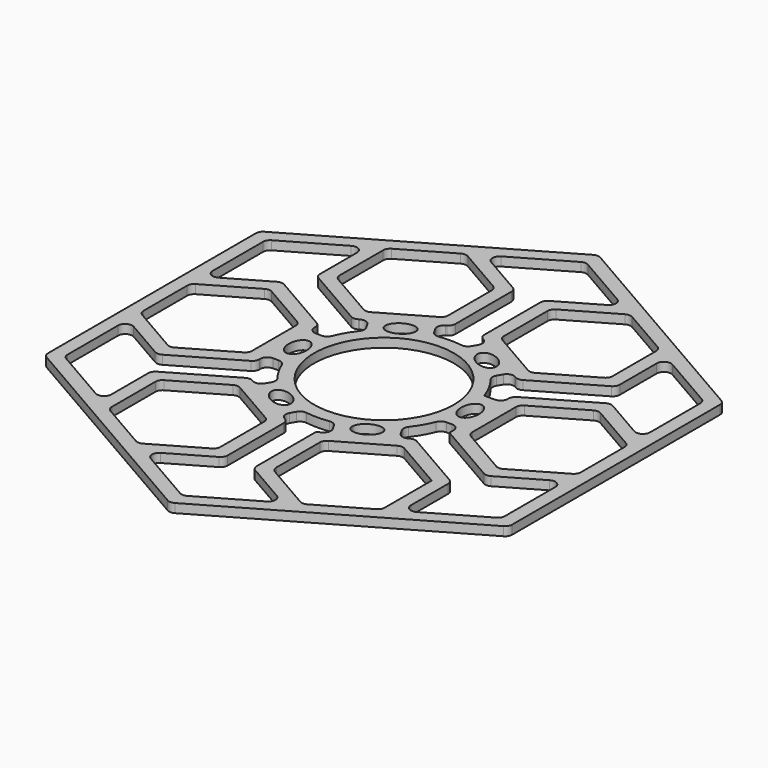
from build123d import *

# Parameters (mm, degrees)
F0_R     = 15.650635
F1_DEPTH = 2
F2_R     = 1.6


with BuildPart() as f1:
    # F0 (on Top) → F1 (new body)
    with BuildSketch(Plane.XY):
        Polygon((-51.961524, -30), (0, -60), (51.961524, -30), (51.961524, 30), (0, 60), (-33.558484, 40.625), (-51.961524, 30), (-51.961524, 8.75), (-51.961524, -8.75), align=None)
        Polygon((-6.247595, -24.857051), (-6.247595, -38.892949), (-18.40304, -45.910898), (-30.558484, -38.892949), (-30.558484, -24.857051), (-18.40304, -17.839102), align=None, mode=Mode.SUBTRACT)
        with BuildLine():
            Line((15.40304, -47.642949), (0, -56.535898))
            Line((0, -56.535898), (-15.40304, -47.642949))
            Line((-15.40304, -47.642949), (-3.247595, -40.625))
            Line((-3.247595, -40.625), (-3.247595, -23.125))
            Line((-3.247595, -23.125), (-5.629165, -21.75))
            Line((-5.629165, -21.75), (-3.633431, -18.293287))
            ThreePointArc((-3.633431, -18.293287), (0, -18.650635), (3.633431, -18.293287))
            Line((3.633431, -18.293287), (5.629165, -21.75))
            Line((5.629165, -21.75), (3.247595, -23.125))
            Line((3.247595, -23.125), (3.247595, -40.625))
            Line((3.247595, -40.625), (15.40304, -47.642949))
        make_face(mode=Mode.SUBTRACT)
        with BuildLine():
            Line((-48.961524, -28.267949), (-48.961524, -10.482051))
            Line((-48.961524, -10.482051), (-36.80608, -17.5))
            Line((-36.80608, -17.5), (-21.650635, -8.75))
            Line((-21.650635, -8.75), (-21.650635, -6))
            Line((-21.650635, -6), (-17.659167, -6))
            ThreePointArc((-17.659167, -6), (-16.151924, -9.325318), (-14.025736, -12.293287))
            Line((-14.025736, -12.293287), (-16.02147, -15.75))
            Line((-16.02147, -15.75), (-18.40304, -14.375))
            Line((-18.40304, -14.375), (-33.558484, -23.125))
            Line((-33.558484, -23.125), (-33.558484, -37.160898))
            Line((-33.558484, -37.160898), (-48.961524, -28.267949))
        make_face(mode=Mode.SUBTRACT)
        with BuildLine():
            add(Edge.make_bspline(
                [(-12.251116, -15.219555), (-13.983167, -18.219555), (-9.220027, -18.969555), (-4.456887, -19.719555), (-7.487976, -15.969555), (-10.519065, -12.219555), (-12.251116, -15.219555)],
                knots=[0, 0, 0, 2.094395, 2.094395, 4.18879, 4.18879, 6.283185, 6.283185, 6.283185], degree=2, weights=[1, 0.5, 1, 0.5, 1, 0.5, 1]))
        make_face(mode=Mode.SUBTRACT)
        Polygon((18.40304, -17.839102), (30.558484, -24.857051), (30.558484, -38.892949), (18.40304, -45.910898), (6.247595, -38.892949), (6.247595, -24.857051), align=None, mode=Mode.SUBTRACT)
        with BuildLine():
            add(Edge.make_bspline(
                [(6.876703, -17.336584), (6.830785, -17.831266), (7.054964, -18.219555)],
                knots=[5.84212, 5.84212, 5.84212, 6.283185, 6.283185, 6.283185], degree=2, weights=[1, 0.975781, 1]))
            add(Edge.make_bspline(
                [(7.054964, -18.219555), (8.525764, -20.767056), (11.538384, -17.77863), (14.551004, -14.790204), (10.864485, -14.440628), (7.177966, -14.091052), (6.876703, -17.336584)],
                knots=[0, 0, 0, 1.947373, 1.947373, 3.894747, 3.894747, 5.84212, 5.84212, 5.84212], degree=2, weights=[1, 0.562255, 1, 0.562255, 1, 0.562255, 1]))
        make_face(mode=Mode.SUBTRACT)
        with BuildLine():
            Line((48.961524, -10.482051), (48.961524, -28.267949))
            Line((48.961524, -28.267949), (33.558484, -37.160898))
            Line((33.558484, -37.160898), (33.558484, -23.125))
            Line((33.558484, -23.125), (18.40304, -14.375))
            Line((18.40304, -14.375), (16.02147, -15.75))
            Line((16.02147, -15.75), (14.025736, -12.293287))
            ThreePointArc((14.025736, -12.293287), (16.151924, -9.325318), (17.659167, -6))
            Line((17.659167, -6), (21.650635, -6))
            Line((21.650635, -6), (21.650635, -8.75))
            Line((21.650635, -8.75), (36.80608, -17.5))
            Line((36.80608, -17.5), (48.961524, -10.482051))
        make_face(mode=Mode.SUBTRACT)
        Polygon((24.650635, 7.017949), (36.80608, 14.035898), (48.961524, 7.017949), (48.961524, -7.017949), (36.80608, -14.035898), (24.650635, -7.017949), align=None, mode=Mode.SUBTRACT)
        Polygon((-48.961524, -7.017949), (-48.961524, 7.017949), (-36.80608, 14.035898), (-24.650635, 7.017949), (-24.650635, -7.017949), (-36.80608, -14.035898), align=None, mode=Mode.SUBTRACT)
        with BuildLine():
            Line((-48.961524, 28.267949), (-33.558484, 37.160898))
            Line((-33.558484, 37.160898), (-33.558484, 23.125))
            Line((-33.558484, 23.125), (-18.40304, 14.375))
            Line((-18.40304, 14.375), (-16.02147, 15.75))
            Line((-16.02147, 15.75), (-14.025736, 12.293287))
            ThreePointArc((-14.025736, 12.293287), (-16.151924, 9.325318), (-17.659167, 6))
            Line((-17.659167, 6), (-21.650635, 6))
            Line((-21.650635, 6), (-21.650635, 8.75))
            Line((-21.650635, 8.75), (-36.80608, 17.5))
            Line((-36.80608, 17.5), (-48.961524, 10.482051))
            Line((-48.961524, 10.482051), (-48.961524, 28.267949))
        make_face(mode=Mode.SUBTRACT)
        with BuildLine():
            add(Edge.make_bspline(
                [(-19.30608, 3), (-22.770181, 3), (-21.03813, -1.5), (-19.30608, -6), (-17.574029, -1.5), (-15.841978, 3), (-19.30608, 3)],
                knots=[0, 0, 0, 2.094395, 2.094395, 4.18879, 4.18879, 6.283185, 6.283185, 6.283185], degree=2, weights=[1, 0.5, 1, 0.5, 1, 0.5, 1]))
        make_face(mode=Mode.SUBTRACT)
        Circle(F0_R, mode=Mode.SUBTRACT)
        with BuildLine():
            add(Edge.make_bspline(
                [(-7.054964, 18.219555), (-8.787014, 21.219555), (-11.818103, 17.469555), (-14.849192, 13.719555), (-10.086053, 14.469555), (-5.322913, 15.219555), (-7.054964, 18.219555)],
                knots=[0, 0, 0, 2.094395, 2.094395, 4.18879, 4.18879, 6.283185, 6.283185, 6.283185], degree=2, weights=[1, 0.5, 1, 0.5, 1, 0.5, 1]))
        make_face(mode=Mode.SUBTRACT)
        Polygon((-30.558484, 24.857051), (-30.558484, 38.892949), (-18.40304, 45.910898), (-6.247595, 38.892949), (-6.247595, 24.857051), (-18.40304, 17.839102), align=None, mode=Mode.SUBTRACT)
        with BuildLine():
            add(Edge.make_bspline(
                [(19.30608, -3), (22.770181, -3), (21.03813, 1.5), (19.30608, 6), (17.574029, 1.5), (15.841978, -3), (19.30608, -3)],
                knots=[0, 0, 0, 2.094395, 2.094395, 4.18879, 4.18879, 6.283185, 6.283185, 6.283185], degree=2, weights=[1, 0.5, 1, 0.5, 1, 0.5, 1]))
        make_face(mode=Mode.SUBTRACT)
        with BuildLine():
            add(Edge.make_bspline(
                [(12.251116, 15.219555), (13.983167, 18.219555), (9.220027, 18.969555), (4.456887, 19.719555), (7.487976, 15.969555), (10.519065, 12.219555), (12.251116, 15.219555)],
                knots=[0, 0, 0, 2.094395, 2.094395, 4.18879, 4.18879, 6.283185, 6.283185, 6.283185], degree=2, weights=[1, 0.5, 1, 0.5, 1, 0.5, 1]))
        make_face(mode=Mode.SUBTRACT)
        with BuildLine():
            Line((33.558484, 37.160898), (48.961524, 28.267949))
            Line((48.961524, 28.267949), (48.961524, 10.482051))
            Line((48.961524, 10.482051), (36.80608, 17.5))
            Line((36.80608, 17.5), (21.650635, 8.75))
            Line((21.650635, 8.75), (21.650635, 6))
            Line((21.650635, 6), (17.659167, 6))
            ThreePointArc((17.659167, 6), (16.151924, 9.325318), (14.025736, 12.293287))
            Line((14.025736, 12.293287), (16.02147, 15.75))
            Line((16.02147, 15.75), (18.40304, 14.375))
            Line((18.40304, 14.375), (33.558484, 23.125))
            Line((33.558484, 23.125), (33.558484, 37.160898))
        make_face(mode=Mode.SUBTRACT)
        with BuildLine():
            Line((-15.40304, 47.642949), (0, 56.535898))
            Line((0, 56.535898), (15.40304, 47.642949))
            Line((15.40304, 47.642949), (3.247595, 40.625))
            Line((3.247595, 40.625), (3.247595, 23.125))
            Line((3.247595, 23.125), (5.629165, 21.75))
            Line((5.629165, 21.75), (3.633431, 18.293287))
            ThreePointArc((3.633431, 18.293287), (0, 18.650635), (-3.633431, 18.293287))
            Line((-3.633431, 18.293287), (-5.629165, 21.75))
            Line((-5.629165, 21.75), (-3.247595, 23.125))
            Line((-3.247595, 23.125), (-3.247595, 40.625))
            Line((-3.247595, 40.625), (-15.40304, 47.642949))
        make_face(mode=Mode.SUBTRACT)
        Polygon((6.247595, 24.857051), (6.247595, 38.892949), (18.40304, 45.910898), (30.558484, 38.892949), (30.558484, 24.857051), (18.40304, 17.839102), align=None, mode=Mode.SUBTRACT)
    extrude(amount=F1_DEPTH)

    # F2
    f2_edges = [f1.edges().sort_by_distance(p)[0] for p in [
        (-21.650635, -6, 1),
        (14.025736, -12.293287, 1),
        (14.025736, 12.293287, 1),
        (-5.629165, 21.75, 1),
        (17.659167, -6, 1),
        (-16.02147, 15.75, 1),
        (-21.650635, 6, 1),
        (-16.02147, -15.75, 1),
        (3.633431, 18.293287, 1),
        (-14.025736, 12.293287, 1),
        (-17.659167, 6, 1),
        (-17.659167, -6, 1),
        (-14.025736, -12.293287, 1),
        (-3.633431, -18.293287, 1),
        (3.633431, -18.293287, 1),
        (5.629165, -21.75, 1),
        (21.650635, -6, 1),
        (16.02147, -15.75, 1),
        (16.02147, 15.75, 1),
        (21.650635, 6, 1),
        (-3.633431, 18.293287, 1),
        (5.629165, 21.75, 1),
        (-18.40304, 14.375, 1),
        (-33.558484, 23.125, 1),
        (-33.558484, 37.160898, 1),
        (-48.961524, 28.267949, 1),
        (-30.558484, 24.857051, 1),
        (-3.247595, 40.625, 1),
        (-3.247595, 23.125, 1),
        (-6.247595, 38.892949, 1),
        (-6.247595, 24.857051, 1),
        (-18.40304, 17.839102, 1),
        (-30.558484, 38.892949, 1),
        (-18.40304, 45.910898, 1),
        (-15.40304, 47.642949, 1),
        (-51.961524, 30, 1),
        (0, 60, 1),
        (-51.961524, -30, 1),
        (0, -60, 1),
        (51.961524, -30, 1),
        (51.961524, 30, 1),
        (0, -56.535898, 1),
        (-30.558484, -38.892949, 1),
        (-48.961524, -28.267949, 1),
        (-48.961524, -7.017949, 1),
        (-48.961524, 10.482051, 1),
        (6.247595, 38.892949, 1),
        (6.247595, 24.857051, 1),
        (24.650635, 7.017949, 1),
        (-48.961524, 7.017949, 1),
        (24.650635, -7.017949, 1),
        (33.558484, 23.125, 1),
        (36.80608, -17.5, 1),
        (33.558484, -23.125, 1),
        (-3.247595, -40.625, 1),
        (3.247595, -40.625, 1),
        (36.80608, 14.035898, 1),
        (18.40304, -17.839102, 1),
        (6.247595, -24.857051, 1),
        (-30.558484, -24.857051, 1),
        (-21.650635, -8.75, 1),
        (-21.650635, 8.75, 1),
        (18.40304, 14.375, 1),
        (-3.247595, -23.125, 1),
        (18.40304, -14.375, 1),
        (36.80608, 17.5, 1),
        (21.650635, 8.75, 1),
        (3.247595, 40.625, 1),
        (18.40304, -45.910898, 1),
        (30.558484, -38.892949, 1),
        (48.961524, -28.267949, 1),
        (48.961524, -7.017949, 1),
        (3.247595, 23.125, 1),
        (-24.650635, -7.017949, 1),
        (-6.247595, -38.892949, 1),
        (-36.80608, 17.5, 1),
        (18.40304, 17.839102, 1),
        (30.558484, 24.857051, 1),
        (48.961524, 10.482051, 1),
        (6.247595, -38.892949, 1),
        (-18.40304, -17.839102, 1),
        (-36.80608, 14.035898, 1),
        (0, 56.535898, 1),
        (18.40304, 45.910898, 1),
        (30.558484, 38.892949, 1),
        (-6.247595, -24.857051, 1),
        (-24.650635, 7.017949, 1),
        (48.961524, 28.267949, 1),
        (15.40304, 47.642949, 1),
        (48.961524, 7.017949, 1),
        (36.80608, -14.035898, 1),
        (33.558484, -37.160898, 1),
        (15.40304, -47.642949, 1),
        (-33.558484, -23.125, 1),
        (-18.40304, -45.910898, 1),
        (-48.961524, -10.482051, 1),
        (-18.40304, -14.375, 1),
        (33.558484, 37.160898, 1),
        (-36.80608, -17.5, 1),
        (-36.80608, -14.035898, 1),
        (-5.629165, -21.75, 1),
        (48.961524, -10.482051, 1),
        (-15.40304, -47.642949, 1),
        (-33.558484, -37.160898, 1),
    ]]
    fillet(f2_edges, radius=F2_R)


solid = f1.part
